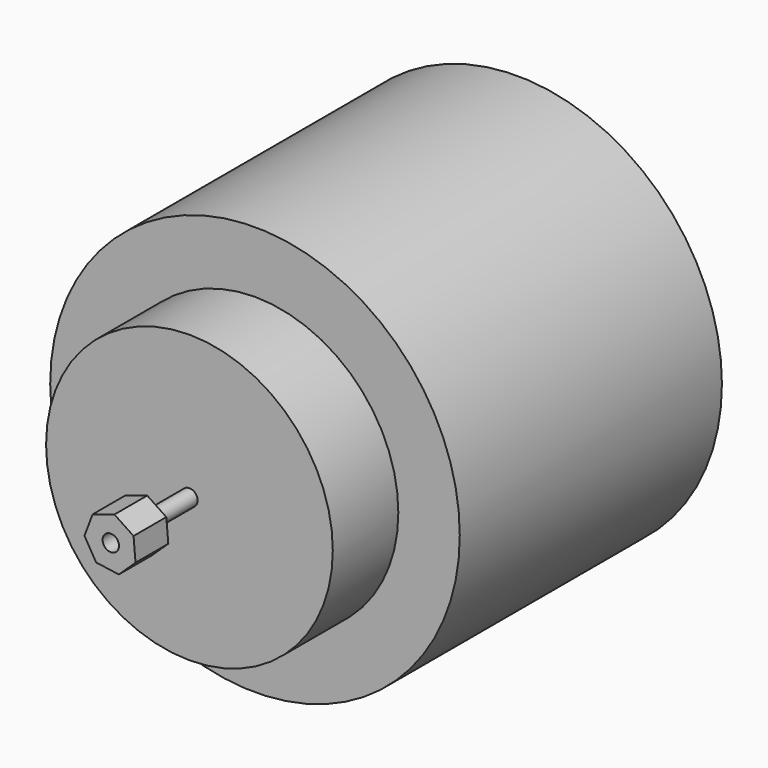
from build123d import *

# Parameters (mm, degrees)
F0_R     = 25
F1_DEPTH = 40
F2_R     = 17.5
F3_DEPTH = 10
F4_R     = 1
F5_DEPTH = 7
F6_R     = 1
F7_DEPTH = 5


with BuildPart() as f1:
    # F0 (on Front) → F1 (new body)
    with BuildSketch(Plane.XZ):
        Circle(F0_R)
    extrude(amount=-F1_DEPTH)


with BuildPart() as f3:
    # F2 (on Front) → F3 (new body)
    with BuildSketch(Plane.XZ):
        Circle(F2_R)
    extrude(amount=F3_DEPTH)


with BuildPart() as f5:
    # F4 (on face) → F5 (new body)
    with BuildSketch(Plane.XZ.offset(10)):
        Circle(F4_R)
    extrude(amount=F5_DEPTH)


with BuildPart() as f7:
    # F6 (on face) → F7 (new body)
    with BuildSketch(Plane.XZ.offset(17)):
        Polygon((2.77722, 1.645202), (0.445297, 3.197085), (-2.221943, 2.341497), (-3.216015, -0.277286), (-1.788362, -2.687267), (0.985964, -3.073681), (3.017839, -1.145551), align=None)
        Circle(F6_R, mode=Mode.SUBTRACT)
    extrude(amount=F7_DEPTH)


solid = Compound([f1.part, f3.part, f5.part, f7.part])
